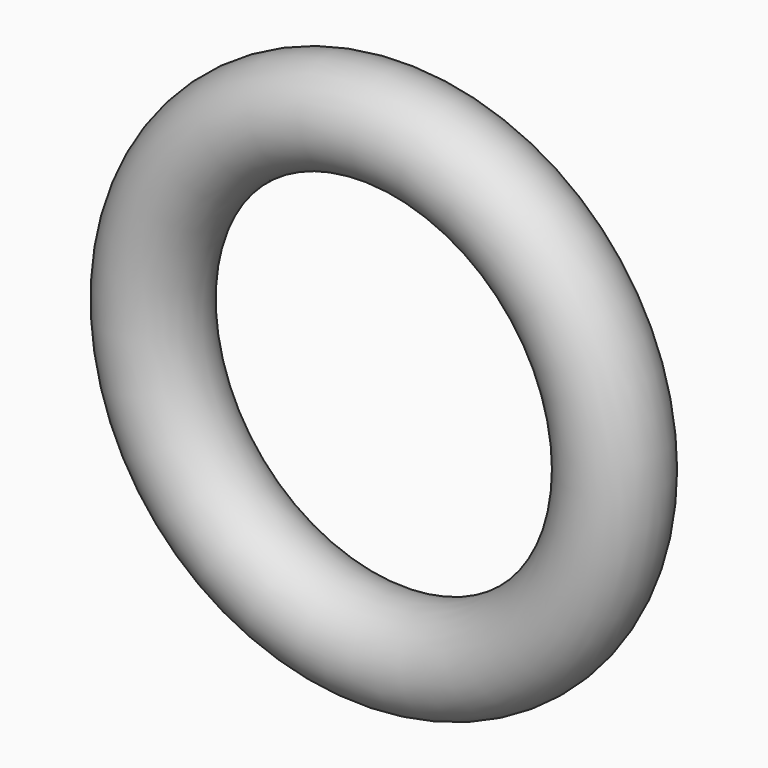
from build123d import *

# Parameters (mm, degrees)
F1_R = 6.343725


with BuildPart() as f2:
    # F2: sweep along a path in F0
    with BuildLine(Plane.XZ) as f2_path:
        CenterArc((0, 0), 30.062307, 0, 360)
    # F1 (on Top) → F2 (sweep)
    with BuildSketch(Plane.XY):
        with Locations((-29.931914, 0)):
            Circle(F1_R)
    sweep(path=f2_path.line)


solid = f2.part
